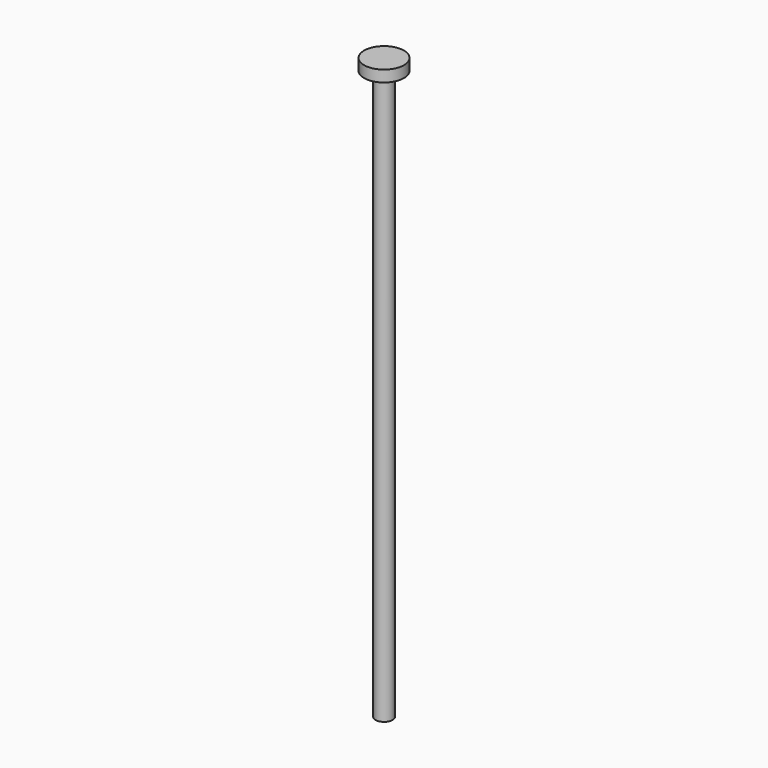
from build123d import *

# Parameters (mm, degrees)
SKETCH_R     = 1.5
PAD_DEPTH    = 100
SKETCH001_R  = 3.5
PAD001_DEPTH = 2


with BuildPart() as part:
    # Sketch → Pad (new body)
    with BuildSketch(Plane.XY):
        Circle(SKETCH_R)
    extrude(amount=PAD_DEPTH)

    # Sketch001 (on Face3 of Pad) → Pad001 (join)
    with BuildSketch(Plane.XY.offset(100)):
        Circle(SKETCH001_R)
    extrude(amount=PAD001_DEPTH)


solid = part.part
